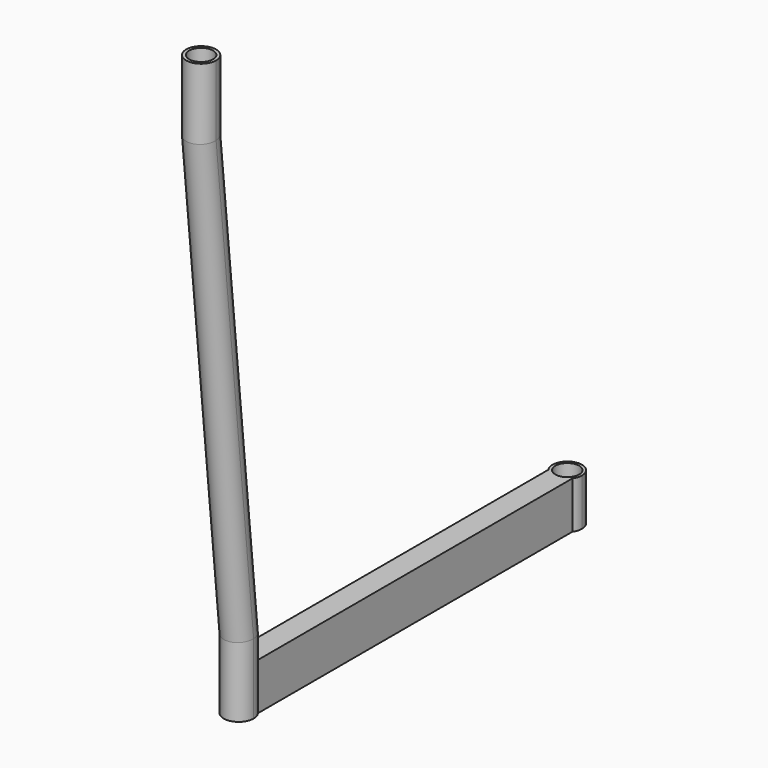
from build123d import *

# Parameters (mm, degrees)
F1_DEPTH = 50.8
F2_R     = 12.8905
F3_DEPTH = 50.8
F0_R     = 12.8905


with BuildPart() as f1:
    # F0 (on Top) → F1 (new body)
    with BuildSketch(Plane.XY):
        with BuildLine():
            ThreePointArc((12.8905, -9.2655617612), (15.1104651235, -4.8671828351), (15.875, 0))
            ThreePointArc((15.875, 0), (-4.8671828351, 15.1104651235), (-12.8905, -9.2655617612))
            ThreePointArc((-12.8905, -9.2655617612), (0, -15.875), (12.8905, -9.2655617612))
        make_face()
        with BuildLine():
            ThreePointArc((12.8905, -9.2655617612), (0, -15.875), (-12.8905, -9.2655617612))
            Line((-12.8905, -9.2655617612), (-12.8905, -221.9905617612))
            Line((-12.8905, -221.9905617612), (12.8905, -221.9905617612))
            Line((12.8905, -221.9905617612), (12.8905, -9.2655617612))
        make_face()
        with BuildLine():
            Line((12.8905, -221.9905617612), (-12.8905, -221.9905617612))
            Line((-12.8905, -221.9905617612), (-12.8905, -434.7155617612))
            ThreePointArc((-12.8905, -434.7155617612), (0, -428.3226569569), (12.8905, -434.7155617612))
            Line((12.8905, -434.7155617612), (12.8905, -221.9905617612))
        make_face()
    extrude(amount=F1_DEPTH)

    # F2 (on face) → F3 (cut, through all)
    with BuildSketch(Plane.XY.offset(50.8)):
        Circle(F2_R)
    extrude(amount=-F3_DEPTH, mode=Mode.SUBTRACT)

    # F5: sweep along a path in F4
    with BuildLine(Plane.YZ) as f5_path:
        Line((-444.5151569569, 0), (-444.5151569569, 76.2))
        Line((-444.5151569569, 76.2), (-495.3151569569, 571.5))
        Line((-495.3151569569, 571.5), (-495.3151569569, 647.7))
    # F0 (on Top) → F5 (sweep)
    with BuildSketch(Plane.XY):
        with BuildLine():
            ThreePointArc((12.8905, -434.7155617612), (0, -428.3226569569), (-12.8905, -434.7155617612))
            ThreePointArc((-12.8905, -434.7155617612), (-5.1704755584, -459.8599684171), (16.1925, -444.5151569569))
            ThreePointArc((16.1925, -444.5151569569), (15.3448114602, -439.3446813985), (12.8905, -434.7155617612))
        make_face()
        with Locations((0, -444.5151569569)):
            Circle(F0_R, mode=Mode.SUBTRACT)
    sweep(path=f5_path.line, transition=Transition.RIGHT)


solid = f1.part
